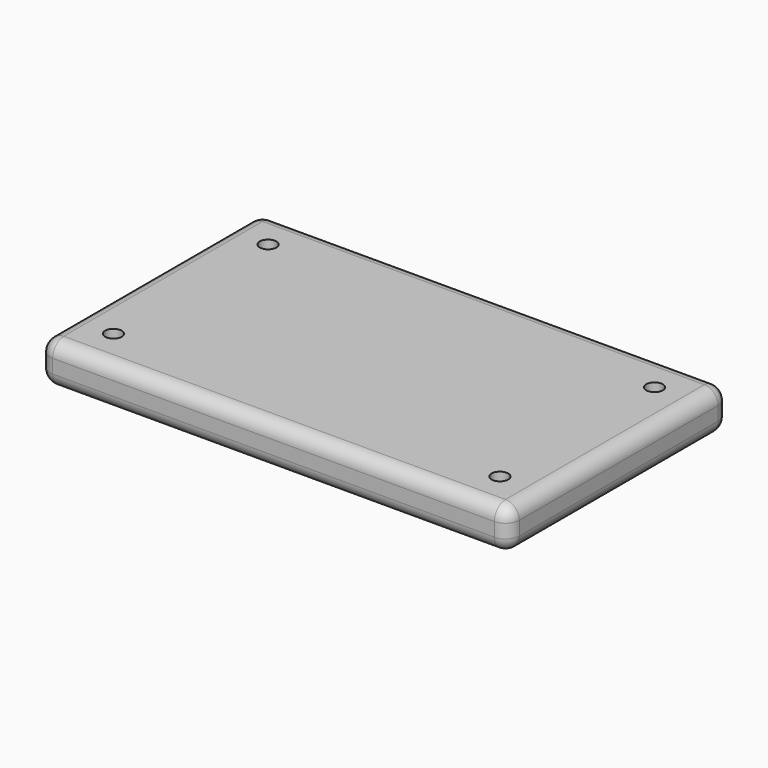
from build123d import *

# Parameters (mm, degrees)
F0_W     = 170
F0_H     = 100
F0_R     = 3
F1_DEPTH = 7.5
F2_T     = -10
F3_R     = 5
F4_R     = 3
F5_DEPTH = 5


with BuildPart() as f1:
    # F0 (on Top) → F1 (new body, symmetric)
    with BuildSketch(Plane.XY):
        Rectangle(F0_W, F0_H)
        with Locations((-70, -35)):
            Circle(F0_R, mode=Mode.SUBTRACT)
        with Locations((70, -35)):
            Circle(F0_R, mode=Mode.SUBTRACT)
        with Locations((-70, 35)):
            Circle(F0_R, mode=Mode.SUBTRACT)
        with Locations((70, 35)):
            Circle(F0_R, mode=Mode.SUBTRACT)
    extrude(amount=F1_DEPTH, both=True)

    # F2
    f2_openings = [f1.faces().sort_by_distance(p)[0] for p in [
        (0, 0, -7.5),
    ]]
    offset(amount=F2_T, openings=f2_openings, kind=Kind.INTERSECTION)

    # F3
    f3_edges = [f1.edges().sort_by_distance(p)[0] for p in [
        (-85, 0, -7.5),
        (-85, 0, 7.5),
        (0, -50, 7.5),
        (0, -50, -7.5),
        (85, 0, -7.5),
        (85, 0, 7.5),
        (85, 50, 0),
        (0, 50, 7.5),
        (0, 50, -7.5),
        (-85, 50, 0),
        (-85, -50, 0),
        (85, -50, 0),
    ]]
    fillet(f3_edges, radius=F3_R)

    # F4 (on face) → F5 (join)
    with BuildSketch(Plane(origin=(0, 0, -2.5), x_dir=(1, 0, 0), z_dir=(0, 0, -1))):
        with BuildLine():
            Line((65, -40), (75, -40))
            Line((75, -40), (75, -30))
            ThreePointArc((75, -30), (65, -30), (65, -40))
        make_face()
        with Locations((70, -35)):
            Circle(F4_R, mode=Mode.SUBTRACT)
        with BuildLine():
            Line((-75, -30), (-75, -40))
            Line((-75, -40), (-65, -40))
            ThreePointArc((-65, -40), (-65, -30), (-75, -30))
        make_face()
        with Locations((-70, -35)):
            Circle(F4_R, mode=Mode.SUBTRACT)
        with BuildLine():
            Line((-65, 40), (-75, 40))
            Line((-75, 40), (-75, 30))
            ThreePointArc((-75, 30), (-65, 30), (-65, 40))
        make_face()
        with Locations((-70, 35)):
            Circle(F4_R, mode=Mode.SUBTRACT)
        with BuildLine():
            Line((75, 30), (75, 40))
            Line((75, 40), (65, 40))
            ThreePointArc((65, 40), (65, 30), (75, 30))
        make_face()
        with Locations((70, 35)):
            Circle(F4_R, mode=Mode.SUBTRACT)
    extrude(amount=F5_DEPTH)


solid = f1.part
